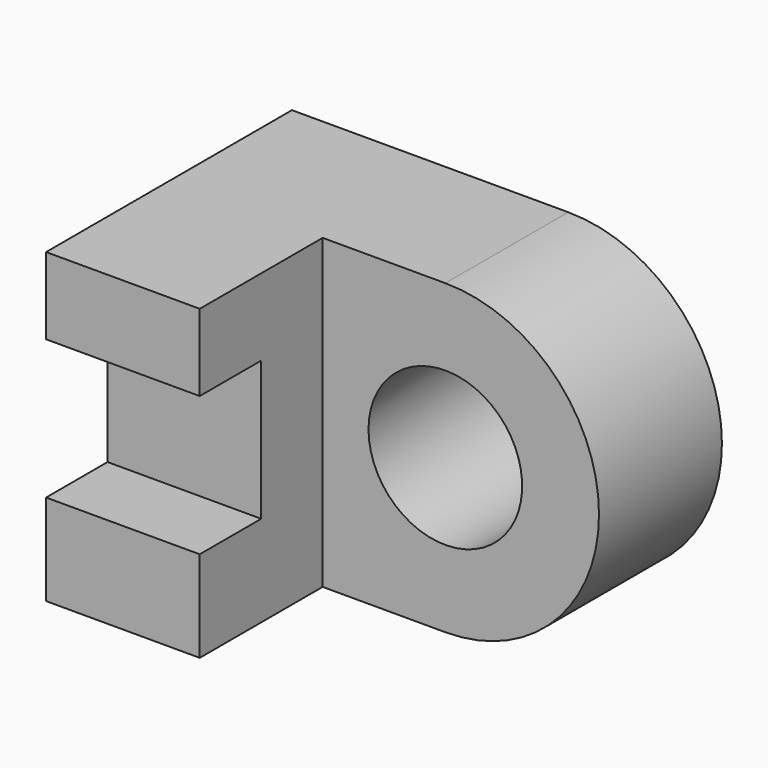
from build123d import *

# Parameters (mm, degrees)
F0_W     = 44.45
F0_H     = 25.4
F1_DEPTH = 25.4
F2_W     = 31.75
F2_H     = 25.4
F3_DEPTH = 12.7
F4_W     = 12.7
F4_H     = 11.5118098885
F5_DEPTH = 6.35
F7_DEPTH = 12.7
F9_D     = 12.7


with BuildPart() as f1:
    # F0 (on Front) → F1 (new body)
    with BuildSketch(Plane.XZ):
        with Locations((22.225, 12.7)):
            Rectangle(F0_W, F0_H)
    extrude(amount=F1_DEPTH)

    # F2 (on face) → F3 (cut)
    with BuildSketch(Plane.XZ.offset(25.4)):
        with Locations((28.575, 12.7)):
            Rectangle(F2_W, F2_H)
    extrude(amount=-F3_DEPTH, mode=Mode.SUBTRACT)

    # F4 (on face) → F5 (cut)
    with BuildSketch(Plane.XZ.offset(25.4)):
        with Locations((6.35, 13.2940950558)):
            Rectangle(F4_W, F4_H)
    extrude(amount=-F5_DEPTH, mode=Mode.SUBTRACT)

    # F6 (on face) → F7 (cut, through all)
    with BuildSketch(Plane.XZ.offset(12.7)):
        with BuildLine():
            Line((44.45, 25.4), (22.8397343308, 25.4))
            ThreePointArc((22.8397343308, 25.4), (35.5397343308, 12.7), (22.8397343308, 0))
            Line((22.8397343308, 0), (44.45, 0))
            Line((44.45, 0), (44.45, 25.4))
        make_face()
    extrude(amount=-F7_DEPTH, mode=Mode.SUBTRACT)

    # F9 (through all)
    with Locations(Plane.XZ.offset(12.7)):
        with Locations((22.8397343308, 12.7)):
            Hole(F9_D / 2)


solid = f1.part
